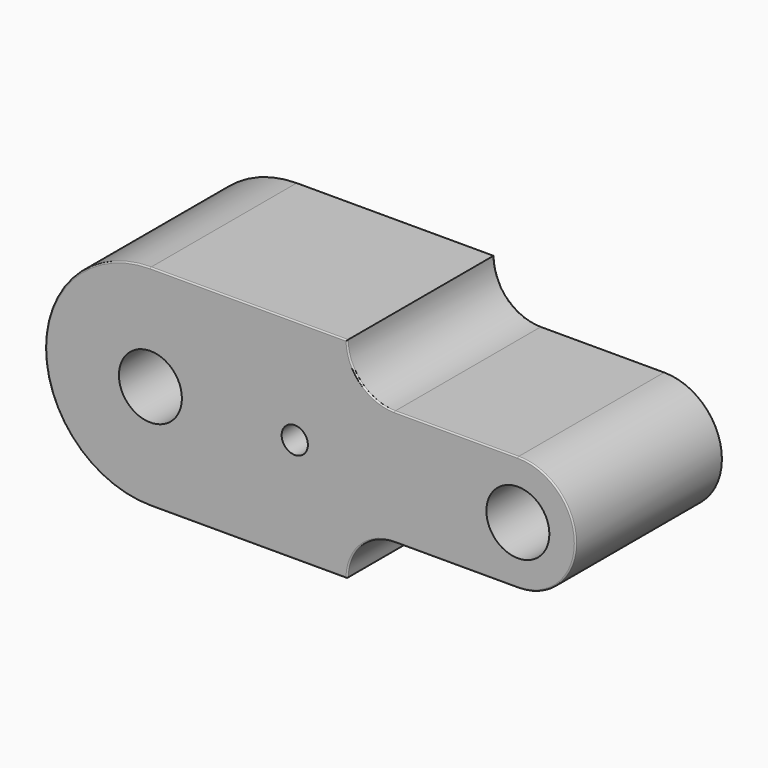
from build123d import *

# Parameters (mm, degrees)
F0_R     = 120
F0_R_2   = 50
F1_DEPTH = 350
F2_R     = 5


with BuildPart() as f1:
    # F0 (on Front) → F1 (new body, symmetric)
    with BuildSketch(Plane.XZ):
        with BuildLine():
            Line((-375, -400), (375, -400))
            ThreePointArc((375, -400), (427.720779, -272.720779), (555, -220))
            Line((555, -220), (1025, -220))
            ThreePointArc((1025, -220), (1245, 0), (1025, 220))
            Line((1025, 220), (555, 220))
            ThreePointArc((555, 220), (427.720779, 272.720779), (375, 400))
            Line((375, 400), (-375, 400))
            ThreePointArc((-375, 400), (-775, 0), (-375, -400))
        make_face()
        with Locations((-375, 0)):
            Circle(F0_R, mode=Mode.SUBTRACT)
        with Locations((175, 0)):
            Circle(F0_R_2, mode=Mode.SUBTRACT)
        with Locations((1025, 0)):
            Circle(F0_R, mode=Mode.SUBTRACT)
    extrude(amount=F1_DEPTH, both=True)

    # F2
    f2_edges = [f1.edges().sort_by_distance(p)[0] for p in [
        (-775, -350, 0),
        (0, -350, 400),
        (427.720779, -350, 272.720779),
        (790, -350, 220),
        (1245, -350, 0),
        (790, -350, -220),
        (427.720779, -350, -272.720779),
        (0, -350, -400),
        (-775, 350, 0),
        (0, 350, 400),
        (427.720779, 350, 272.720779),
        (790, 350, 220),
        (1245, 350, 0),
        (375, 0, -400),
        (790, 350, -220),
        (427.720779, 350, -272.720779),
        (0, 350, -400),
    ]]
    fillet(f2_edges, radius=F2_R)


solid = f1.part
